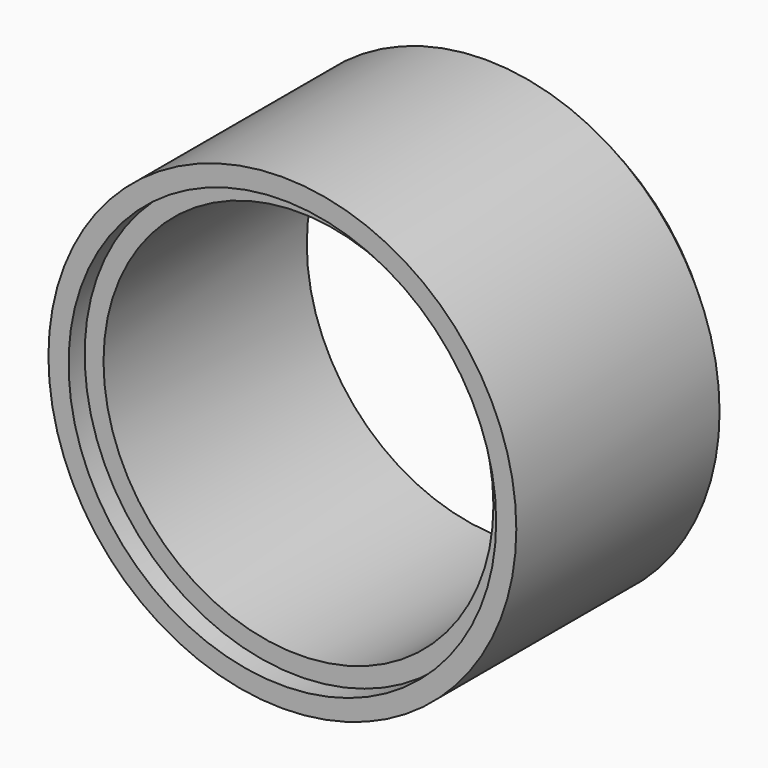
from build123d import *

# Parameters (mm, degrees)
F2_R     = 46.5
F2_R_2   = 42.5
F2_R_3   = 38.75
F3_DEPTH = 54.5
F4_DEPTH = 4
F5_R     = 42.5
F5_R_2   = 38.75
F6_DEPTH = 4


with BuildPart() as f3:
    # F2 (on Front) → F3 (new body)
    with BuildSketch(Plane.XZ):
        Circle(F2_R)
        Circle(F2_R_2, mode=Mode.SUBTRACT)
        Circle(F2_R_2)
        Circle(F2_R_3, mode=Mode.SUBTRACT)
    extrude(amount=F3_DEPTH)

    # F2 (on Front) → F4 (cut)
    with BuildSketch(Plane.XZ):
        Circle(F2_R)
        Circle(F2_R_2, mode=Mode.SUBTRACT)
    extrude(amount=F4_DEPTH, mode=Mode.SUBTRACT)

    # F5 (on face) → F6 (cut)
    with BuildSketch(Plane.XZ.offset(54.5)):
        Circle(F5_R)
        Circle(F5_R_2, mode=Mode.SUBTRACT)
    extrude(amount=-F6_DEPTH, mode=Mode.SUBTRACT)


solid = f3.part
